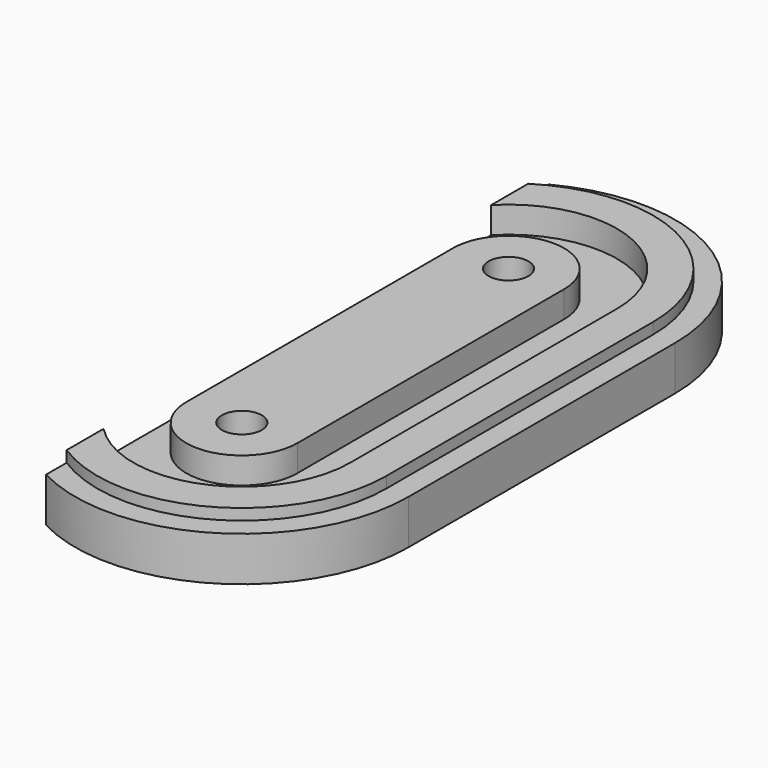
from build123d import *

# Parameters (mm, degrees)
SKETCH_R        = 1.8
PAD_DEPTH       = 5
POCKET_DEPTH    = 2.3800001144
POCKET001_DEPTH = 1
SKETCH003_R     = 3
POCKET002_DEPTH = 3


with BuildPart() as part:
    # Sketch → Pad (new body)
    with BuildSketch(Plane.XY):
        with BuildLine():
            ThreePointArc((-7, -13.2664991614), (7.7459666924, -12.8452325787), (15, 0))
            Line((15, 30), (15, 0))
            ThreePointArc((15, 30), (7.7459666924, 42.8452325787), (-7, 43.2664991614))
            Line((-7, 43.2664991614), (-7, -13.2664991614))
        make_face()
        with Locations((0, 30)):
            Circle(SKETCH_R, mode=Mode.SUBTRACT)
        Circle(SKETCH_R, mode=Mode.SUBTRACT)
    extrude(amount=PAD_DEPTH)

    # Sketch001 → Pocket (cut)
    with BuildSketch(Plane.XY.offset(5)):
        with BuildLine():
            ThreePointArc((9.76, 30), (0, 39.76), (-9.76, 30))
            Line((-9.76, 30), (-9.76, 2.54016e-05))
            ThreePointArc((-9.76, 2.54016e-05), (-1.27008e-05, -9.76), (9.76, 0))
            Line((9.76, 30), (9.76, 0))
        make_face()
        with BuildLine():
            ThreePointArc((5, 30), (0, 35), (-5, 30))
            Line((-5, 30), (-5, 0))
            ThreePointArc((-5, 0), (0, -5), (5, 0))
            Line((5, 30), (5, 0))
        make_face(mode=Mode.SUBTRACT)
    extrude(amount=-POCKET_DEPTH, mode=Mode.SUBTRACT)

    # Sketch002 → Pocket001 (cut)
    with BuildSketch(Plane.XY.offset(5)):
        with BuildLine():
            ThreePointArc((15, 30), (0, 45), (-15, 30))
            Line((-15, 30), (-15, 3.614e-07))
            ThreePointArc((-15, 3.614e-07), (-1.807e-07, -15), (15, 0))
            Line((15, 30), (15, 0))
        make_face()
        with BuildLine():
            ThreePointArc((13, 30), (0, 43), (-13, 30))
            Line((-13, 30), (-13, 3.614e-07))
            ThreePointArc((-13, 3.614e-07), (-1.807e-07, -13), (13, 0))
            Line((13, 30), (13, 0))
        make_face(mode=Mode.SUBTRACT)
    extrude(amount=-POCKET001_DEPTH, mode=Mode.SUBTRACT)

    # Sketch003 → Pocket002 (cut)
    with BuildSketch(Plane(origin=(0, 0, 0), x_dir=(1, 0, 0), z_dir=(0, 0, -1))):
        with Locations((0, -30)):
            Circle(SKETCH003_R)
        Polygon((-3, -1.7320508076), (-3, 1.7320508076), (0, 3.4641016151), (3, 1.7320508076), (3, -1.7320508076), (0, -3.4641016151), align=None)
    extrude(amount=-POCKET002_DEPTH, mode=Mode.SUBTRACT)


solid = part.part
